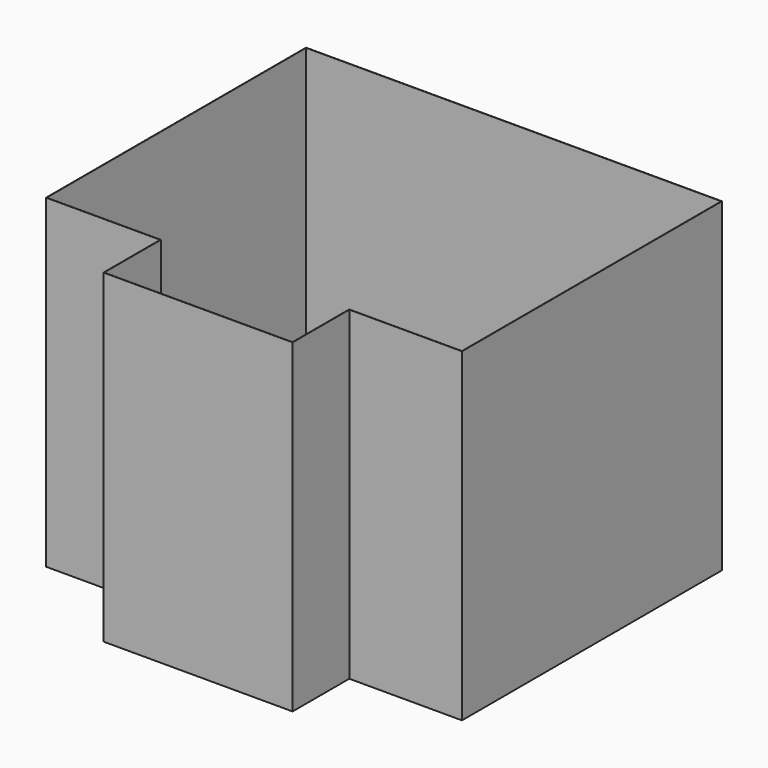
from build123d import *

# Parameters (mm, degrees)
F1_DEPTH = 2750
F2_T     = -2.5


with BuildPart() as f1:
    # F0 (on Top) → F1 (new body)
    with BuildSketch(Plane.XY):
        Polygon((0, 2750), (0, 0), (966.168820858, 0), (966.168820858, -600), (2566.168820858, -600), (2566.168820858, 0), (3520, 0), (3520, 2750), align=None)
    extrude(amount=F1_DEPTH)

    # F2
    f2_openings = [f1.faces().sort_by_distance(p)[0] for p in [
        (1760.556585, 1223.87218, 2750),
    ]]
    offset(amount=F2_T, openings=f2_openings, kind=Kind.INTERSECTION)


solid = f1.part
